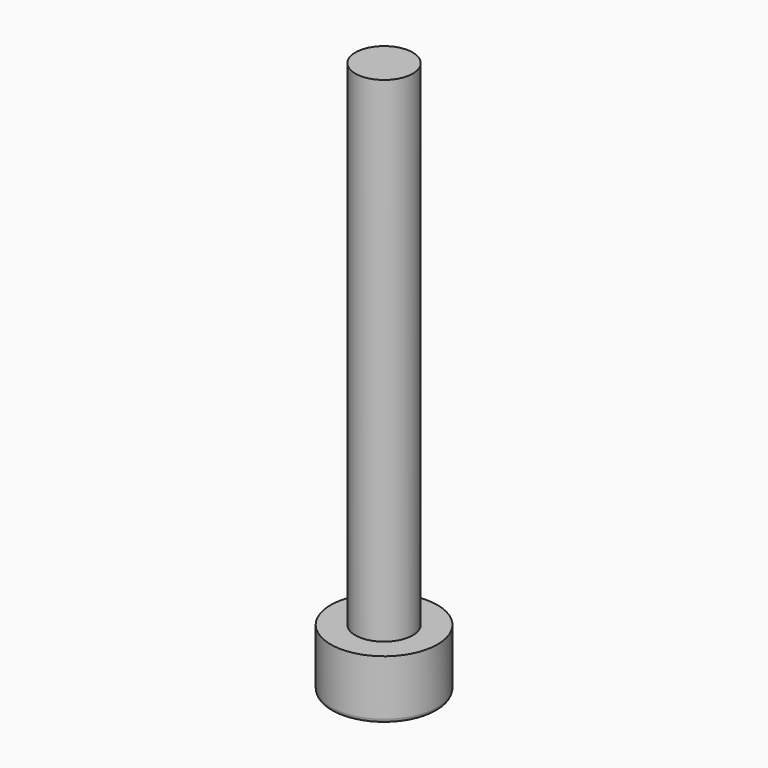
from build123d import *

# Parameters (mm, degrees)
F0_R     = 2.7
F0_R_2   = 1.45
F1_DEPTH = 3
F2_DEPTH = 28
F4_DEPTH = 2
F5_R     = 0.2


with BuildPart() as f1:
    # F0 (on Top) → F1 (new body)
    with BuildSketch(Plane.XY):
        with Locations((-51.408798, -20.234108)):
            Circle(F0_R)
        with Locations((-51.408798, -20.234108)):
            Circle(F0_R_2, mode=Mode.SUBTRACT)
        with Locations((-51.408798, -20.234108)):
            Circle(F0_R_2)
    extrude(amount=F1_DEPTH)

    # F0 (on Top) → F2 (join)
    with BuildSketch(Plane.XY):
        with Locations((-51.408798, -20.234108)):
            Circle(F0_R_2)
    extrude(amount=F2_DEPTH)

    # F3 (on face) → F4 (cut)
    with BuildSketch(Plane(origin=(0, 0, 0), x_dir=(1, 0, 0), z_dir=(0, 0, -1))):
        Polygon((-52.130485, 18.984108), (-50.68711, 18.984108), (-49.965422, 20.234108), (-50.68711, 21.484108), (-52.130485, 21.484108), (-52.852173, 20.234108), align=None)
    extrude(amount=-F4_DEPTH, mode=Mode.SUBTRACT)

    # F5
    f5_edges = [f1.edges().sort_by_distance(p)[0] for p in [
        (-54.108798, -20.234108, 0),
        (-51.408798, -18.984108, 2),
        (-50.326266, -19.609108, 2),
        (-50.326266, -20.859108, 2),
        (-51.408798, -21.484108, 2),
        (-52.491329, -20.859108, 2),
        (-52.491329, -19.609108, 2),
        (-52.491329, -19.609108, 0),
        (-52.491329, -20.859108, 0),
        (-51.408798, -21.484108, 0),
        (-50.326266, -20.859108, 0),
        (-50.326266, -19.609108, 0),
        (-51.408798, -18.984108, 0),
    ]]
    fillet(f5_edges, radius=F5_R)


solid = f1.part
